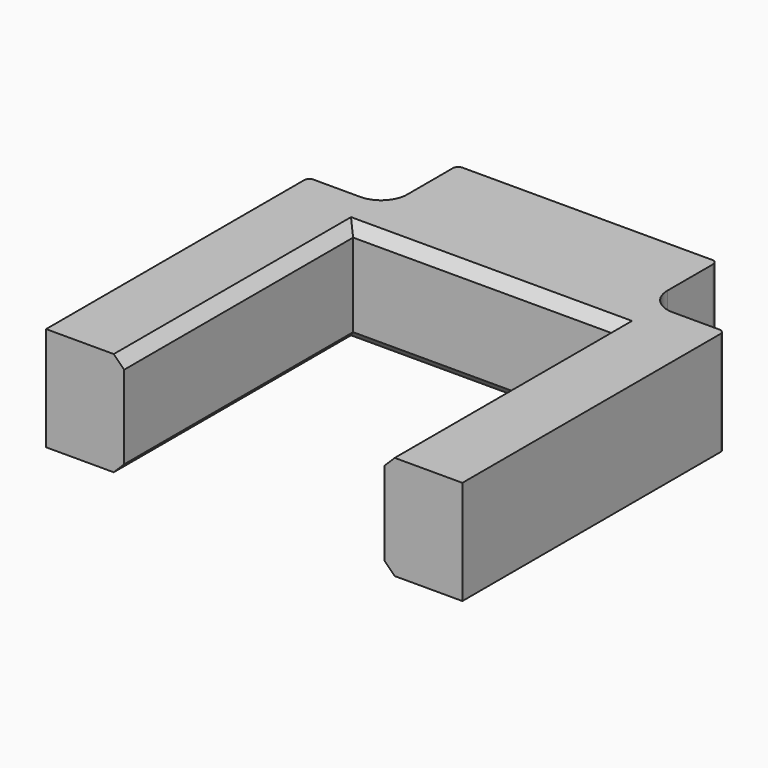
from build123d import *

# Parameters (mm, degrees)
SKETCH_W        = 80
SKETCH_H        = 80
PAD_DEPTH       = 20
SKETCH001_W     = 50
SKETCH001_H     = 55
POCKET_DEPTH    = 20
POCKET001_DEPTH = 20
FILLET_R        = 1
CHAMFER_SIZE    = 2


with BuildPart() as part:
    # Sketch → Pad (new body)
    with BuildSketch(Plane.XY):
        with Locations((-1.368219, 5.07491)):
            Rectangle(SKETCH_W, SKETCH_H)
    extrude(amount=PAD_DEPTH)

    # Sketch001 (on Face6 of Pad) → Pocket (cut)
    with BuildSketch(Plane.XY.offset(20)):
        with Locations((-1.368219, -7.42509)):
            Rectangle(SKETCH001_W, SKETCH001_H)
    extrude(amount=-POCKET_DEPTH, mode=Mode.SUBTRACT)

    # Sketch002 (on Face5 of Pocket) → Pocket001 (cut)
    with BuildSketch(Plane.XY.offset(20)):
        with BuildLine():
            Line((-41.368219, 45.07491), (-41.368219, 28.07491))
            Line((-41.368219, 28.07491), (-31.368219, 28.07491))
            ThreePointArc((-31.368219, 28.07491), (-27.832685, 29.539376), (-26.368219, 33.07491))
            Line((-26.368219, 33.07491), (-26.368219, 45.07491))
            Line((-26.368219, 45.07491), (-41.368219, 45.07491))
        make_face()
        with BuildLine():
            Line((38.631781, 45.07491), (23.631781, 45.07491))
            Line((23.631781, 45.07491), (23.631781, 33.07491))
            ThreePointArc((23.631781, 33.07491), (25.096247, 29.539376), (28.631781, 28.07491))
            Line((28.631781, 28.07491), (38.631781, 28.07491))
            Line((38.631781, 28.07491), (38.631781, 45.07491))
        make_face()
    extrude(amount=-POCKET001_DEPTH, mode=Mode.SUBTRACT)

    # Fillet
    fillet_edges = [part.edges().sort_by_distance(p)[0] for p in [
        (-26.368219, 45.07491, 10),
        (-41.368219, 28.07491, 10),
        (38.631781, 28.07491, 10),
        (23.631781, 45.07491, 10),
    ]]
    fillet(fillet_edges, radius=FILLET_R)

    # Chamfer
    chamfer_edges = [part.edges().sort_by_distance(p)[0] for p in [
        (-26.368219, -7.42509, 20),
        (-1.368219, 20.07491, 20),
        (23.631781, -7.42509, 20),
        (-26.368219, -7.42509, 0),
        (-1.368219, 20.07491, 0),
        (23.631781, -7.42509, 0),
    ]]
    chamfer(chamfer_edges, length=CHAMFER_SIZE)


solid = part.part
